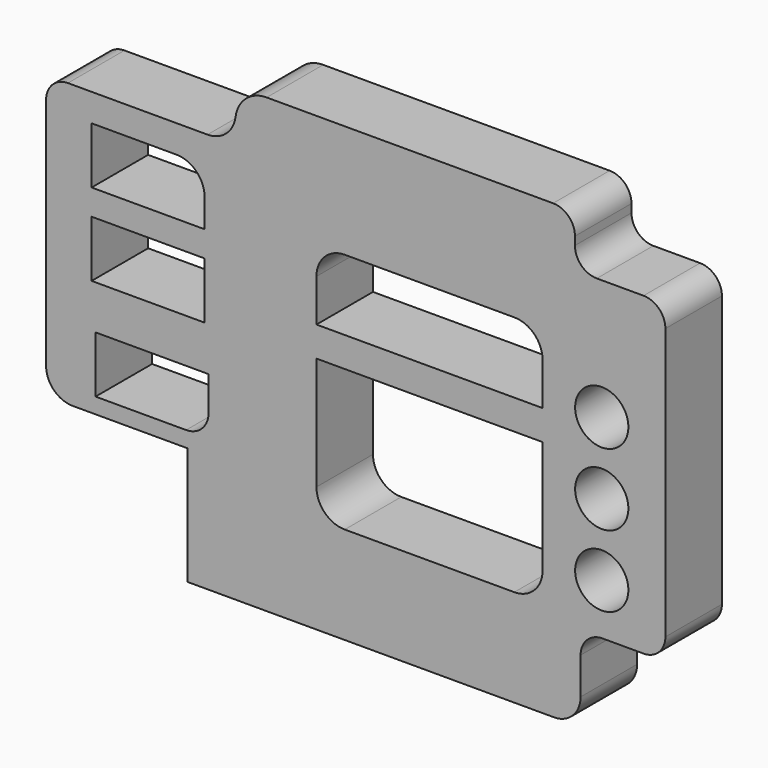
from build123d import *

# Parameters (mm, degrees)
F0_W     = 40
F0_H     = 20
F0_R     = 9.420461
F1_DEPTH = 25
F2_R     = 11.105382
F3_R     = 9.415433
F4_R     = 7.725483
F5_R     = 7.966905


with BuildPart() as f1:
    # F0 (on Front) → F1 (new body)
    with BuildSketch(Plane.XZ):
        with BuildLine():
            Line((-62.390121, 74.47072), (-119.498074, 74.47072))
            Line((-119.498074, 74.47072), (-119.498074, -25.52928))
            Line((-119.498074, -25.52928), (-69.498074, -25.52928))
            Line((-69.498074, -25.52928), (-69.498074, -67.146567))
            Line((-69.498074, -67.146567), (69.608342, -67.146567))
            Line((69.608342, -67.146567), (69.608342, -36.997778))
            Line((69.608342, -36.997778), (99.608342, -36.997778))
            Line((99.608342, -36.997778), (99.608342, 74.47072))
            Line((99.608342, 74.47072), (67.609879, 74.47072))
            Line((67.609879, 74.47072), (67.609879, 92.853433))
            Line((67.609879, 92.853433), (-52.390121, 92.853433))
            Line((-52.390121, 92.853433), (-52.390121, 84.47072))
            ThreePointArc((-52.390121, 84.47072), (-55.319053, 77.399652), (-62.390121, 74.47072))
        make_face()
        with Locations((-81.99026, -10)):
            Rectangle(F0_W, F0_H, mode=Mode.SUBTRACT)
        with BuildLine():
            Line((-23.836674, -22.738976), (-23.836674, 17.261024))
            Line((-23.836674, 17.261024), (56.163326, 17.261024))
            Line((56.163326, 17.261024), (56.163326, -22.738976))
            ThreePointArc((56.163326, -22.738976), (53.234394, -29.810044), (46.163326, -32.738976))
            Line((46.163326, -32.738976), (-13.836674, -32.738976))
            ThreePointArc((-13.836674, -32.738976), (-20.907742, -29.810044), (-23.836674, -22.738976))
        make_face(mode=Mode.SUBTRACT)
        with Locations((77.09389, -18.98604)):
            Circle(F0_R, mode=Mode.SUBTRACT)
        with Locations((77.09389, 6.41396)):
            Circle(F0_R, mode=Mode.SUBTRACT)
        with Locations((-83.39401, 25.578797)):
            Rectangle(F0_W, F0_H, mode=Mode.SUBTRACT)
        with BuildLine():
            Line((-103.39401, 44.666162), (-103.39401, 64.666162))
            Line((-103.39401, 64.666162), (-73.39401, 64.666162))
            ThreePointArc((-73.39401, 64.666162), (-66.322942, 61.73723), (-63.39401, 54.666162))
            Line((-63.39401, 54.666162), (-63.39401, 44.666162))
            Line((-63.39401, 44.666162), (-103.39401, 44.666162))
        make_face(mode=Mode.SUBTRACT)
        with BuildLine():
            Line((56.163326, 27.853433), (-23.836674, 27.853433))
            Line((-23.836674, 27.853433), (-23.836674, 42.853433))
            ThreePointArc((-23.836674, 42.853433), (-20.907742, 49.924501), (-13.836674, 52.853433))
            Line((-13.836674, 52.853433), (46.163326, 52.853433))
            ThreePointArc((46.163326, 52.853433), (53.234394, 49.924501), (56.163326, 42.853433))
            Line((56.163326, 42.853433), (56.163326, 27.853433))
        make_face(mode=Mode.SUBTRACT)
        with Locations((77.09389, 31.81396)):
            Circle(F0_R, mode=Mode.SUBTRACT)
    extrude(amount=F1_DEPTH)

    # F2
    f2_edges = [f1.edges().sort_by_distance(p)[0] for p in [
        (-52.390121, -12.5, 92.853433),
    ]]
    fillet(f2_edges, radius=F2_R)

    # F3
    f3_edges = [f1.edges().sort_by_distance(p)[0] for p in [
        (-119.498074, -12.5, -25.52928),
        (69.608342, -12.5, -67.146567),
    ]]
    fillet(f3_edges, radius=F3_R)

    # F4
    f4_edges = [f1.edges().sort_by_distance(p)[0] for p in [
        (67.609879, -12.5, 92.853433),
        (67.609879, -12.5, 74.47072),
        (99.608342, -12.5, 74.47072),
        (-119.498074, -12.5, 74.47072),
        (99.608342, -12.5, -36.997778),
        (69.608342, -12.5, -36.997778),
    ]]
    fillet(f4_edges, radius=F4_R)

    # F5
    f5_edges = [f1.edges().sort_by_distance(p)[0] for p in [
        (-61.99026, -12.5, -20),
    ]]
    fillet(f5_edges, radius=F5_R)


solid = f1.part
